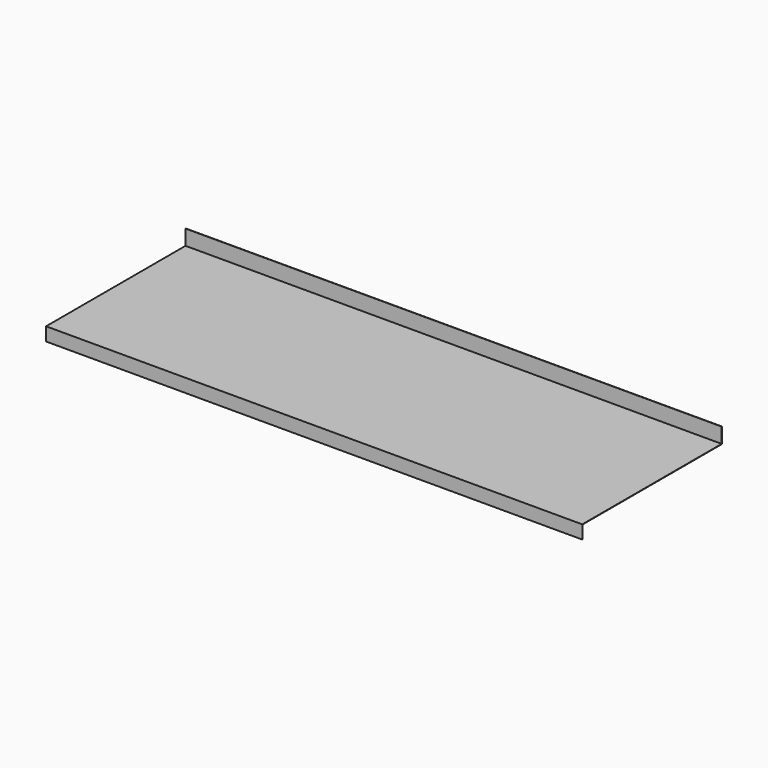
from build123d import *

# Parameters (mm, degrees)
F0_W     = 1800
F0_H     = 585
F1_DEPTH = 1
F0_H_2   = 1
F2_DEPTH = 52
F3_W     = 1800
F3_H     = 1
F4_DEPTH = 44


with BuildPart() as f1:
    # F0 (on Top) → F1 (new body)
    with BuildSketch(Plane.XY):
        with Locations((422.617722, -11.85421)):
            Rectangle(F0_W, F0_H)
    extrude(amount=F1_DEPTH)

    # F0 (on Top) → F2 (join)
    with BuildSketch(Plane.XY):
        with Locations((422.617722, 281.14579)):
            Rectangle(F0_W, F0_H_2)
    extrude(amount=F2_DEPTH)

    # F3 (on face) → F4 (join)
    with BuildSketch(Plane(origin=(0, 0, 0), x_dir=(1, 0, 0), z_dir=(0, 0, -1))):
        with Locations((422.617722, 303.85421)):
            Rectangle(F3_W, F3_H)
    extrude(amount=F4_DEPTH)


solid = f1.part
